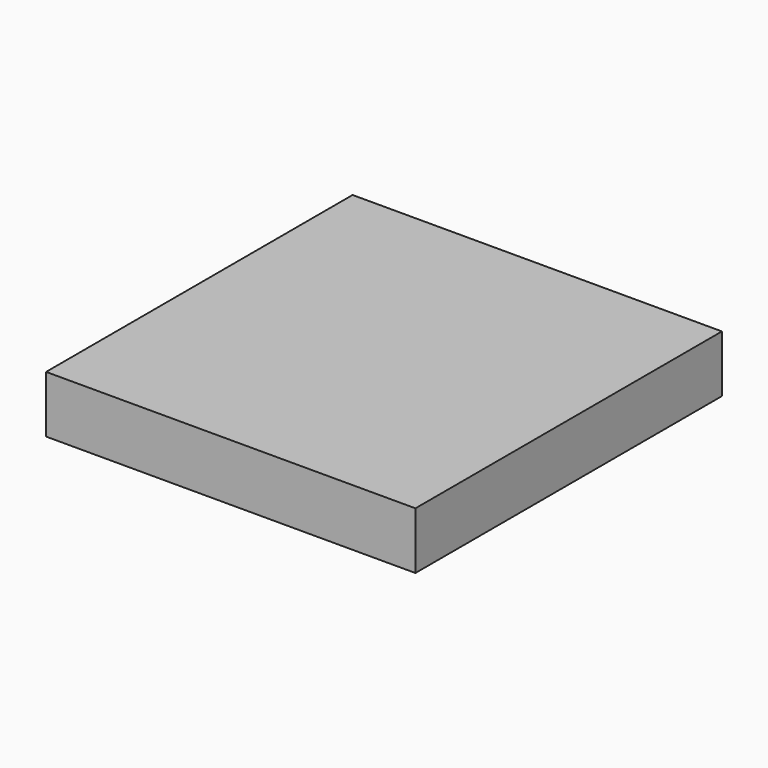
from build123d import *

# Parameters (mm, degrees)
F0_W      = 33.9
F0_H      = 16.9
F0_W_2    = 16.9
F0_H_2    = 33.9
F0_W_3    = 34
F1_DEPTH  = 10
F2_W      = 77.8
F2_H      = 80.7
F3_DEPTH  = 2
F4_R      = 2.425
F5_DEPTH  = 1.6
F6_W      = 14
F6_H      = 14
F7_DEPTH  = 1.5
F8_W      = 15
F8_H      = 15
F8_R      = 2.6
F9_DEPTH  = 3
F10_W     = 15
F10_H     = 15
F11_DEPTH = 1


with BuildPart() as f1:
    # F0 (on Top) → F1 (new body)
    with BuildSketch(Plane.XY):
        Polygon((-38.9, 20.45), (-38.9, -20.45), (-38.9, -37.35), (-38.9, -40.35), (38.9, -40.35), (38.9, -37.35), (38.9, -20.45), (38.9, 20.45), (38.9, 37.35), (38.9, 40.35), (-38.9, 40.35), (-38.9, 37.35), align=None)
        with Locations((-18.95, -28.9)):
            Rectangle(F0_W, F0_H, mode=Mode.SUBTRACT)
        with Locations((-27.45, 0)):
            Rectangle(F0_W_2, F0_H_2, mode=Mode.SUBTRACT)
        with Locations((18.95, -28.9)):
            Rectangle(F0_W, F0_H, mode=Mode.SUBTRACT)
        Rectangle(F0_W_3, F0_H_2, mode=Mode.SUBTRACT)
        with Locations((27.45, 0)):
            Rectangle(F0_W_2, F0_H_2, mode=Mode.SUBTRACT)
        with Locations((-18.95, 28.9)):
            Rectangle(F0_W, F0_H, mode=Mode.SUBTRACT)
        with Locations((18.95, 28.9)):
            Rectangle(F0_W, F0_H, mode=Mode.SUBTRACT)
    extrude(amount=-F1_DEPTH)

    # F2 (on Top) → F3 (join)
    with BuildSketch(Plane.XY):
        Rectangle(F2_W, F2_H)
    extrude(amount=F3_DEPTH)


with BuildPart() as f5:
    # F4 (on Top) → F5 (new body)
    with BuildSketch(Plane.XY):
        with Locations((-4, 4)):
            Circle(F4_R)
    extrude(amount=F5_DEPTH)



with BuildPart() as f5b:
    # F4 (on Top) → F5, piece 2 (new body)
    with BuildSketch(Plane.XY):
        with Locations((4, 4)):
            Circle(F4_R)
    extrude(amount=F5_DEPTH)


with BuildPart() as f5c:
    # F4 (on Top) → F5, piece 3 (new body)
    with BuildSketch(Plane.XY):
        with Locations((-4, -4)):
            Circle(F4_R)
    extrude(amount=F5_DEPTH)


with BuildPart() as f5d:
    # F4 (on Top) → F5, piece 4 (new body)
    with BuildSketch(Plane.XY):
        with Locations((4, -4)):
            Circle(F4_R)
    extrude(amount=F5_DEPTH)


with BuildPart() as f5_1:
    add(f5.part)

    add(f5b.part)  # F7 merges F5b

    add(f5c.part)  # F7 merges F5c

    add(f5d.part)  # F7 merges F5d
    # F6 (on Top) → F7 (join)
    with BuildSketch(Plane.XY):
        Rectangle(F6_W, F6_H)
    extrude(amount=-F7_DEPTH)


with BuildPart() as f9:
    # F8 (on Top) → F9 (new body)
    with BuildSketch(Plane.XY):
        Rectangle(F8_W, F8_H)
        with Locations((-4, -4)):
            Circle(F8_R, mode=Mode.SUBTRACT)
        with Locations((4, -4)):
            Circle(F8_R, mode=Mode.SUBTRACT)
        with Locations((-4, 4)):
            Circle(F8_R, mode=Mode.SUBTRACT)
        with Locations((4, 4)):
            Circle(F8_R, mode=Mode.SUBTRACT)
    extrude(amount=-F9_DEPTH)

    # F10 (on face) → F11 (join)
    with BuildSketch(Plane(origin=(0, 0, -3), x_dir=(1, 0, 0), z_dir=(0, 0, -1))):
        Rectangle(F10_W, F10_H)
    extrude(amount=-F11_DEPTH)


solid = Compound([f1.part, f5_1.part, f9.part])
